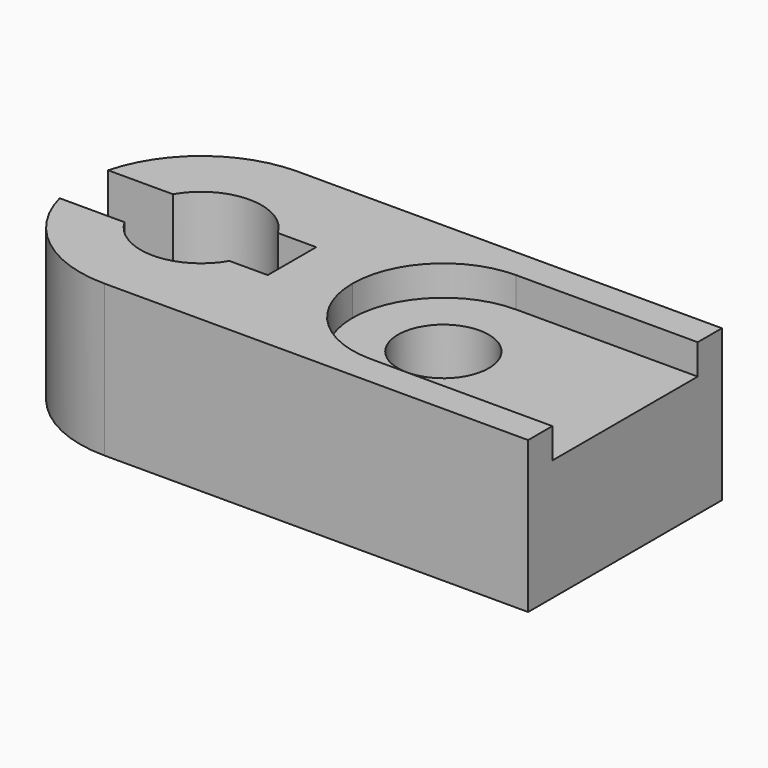
from build123d import *

# Parameters (mm, degrees)
F1_DEPTH = 25
F3_DEPTH = 25
F5_DEPTH = 5
F6_R     = 7.5
F7_DEPTH = 20


with BuildPart() as f1:
    # F0 (on Top) → F1 (new body)
    with BuildSketch(Plane.XY):
        with BuildLine():
            Line((45, -20), (45, 20))
            Line((45, 20), (-25, 20))
            ThreePointArc((-25, 20), (-39.142136, 14.142136), (-45, 0))
            ThreePointArc((-45, 0), (-39.142136, -14.142136), (-25, -20))
            Line((-25, -20), (45, -20))
        make_face()
    extrude(amount=F1_DEPTH)

    # F2 (on face) → F3 (cut, through all)
    with BuildSketch(Plane.XY.offset(25)):
        with BuildLine():
            Line((-44.364917, -5), (-33.660254, -5))
            ThreePointArc((-33.660254, -5), (-25, -10), (-16.339746, -5))
            Line((-16.339746, -5), (-10, -5))
            Line((-10, -5), (-10, 5))
            Line((-10, 5), (-16.339746, 5))
            ThreePointArc((-16.339746, 5), (-25, 10), (-33.660254, 5))
            Line((-33.660254, 5), (-44.364917, 5))
            ThreePointArc((-44.364917, 5), (-45, 0), (-44.364917, -5))
        make_face()
    extrude(amount=-F3_DEPTH, mode=Mode.SUBTRACT)

    # F4 (on face) → F5 (cut)
    with BuildSketch(Plane.XY.offset(25)):
        with BuildLine():
            Line((45, -15), (45, 15))
            Line((45, 15), (15, 15))
            ThreePointArc((15, 15), (4.393398, 10.606602), (0, 0))
            ThreePointArc((0, 0), (4.393398, -10.606602), (15, -15))
            Line((15, -15), (45, -15))
        make_face()
    extrude(amount=-F5_DEPTH, mode=Mode.SUBTRACT)

    # F6 (on face) → F7 (cut, through all)
    with BuildSketch(Plane.XY.offset(20)):
        with Locations((15, 0)):
            Circle(F6_R)
    extrude(amount=-F7_DEPTH, mode=Mode.SUBTRACT)


solid = f1.part
